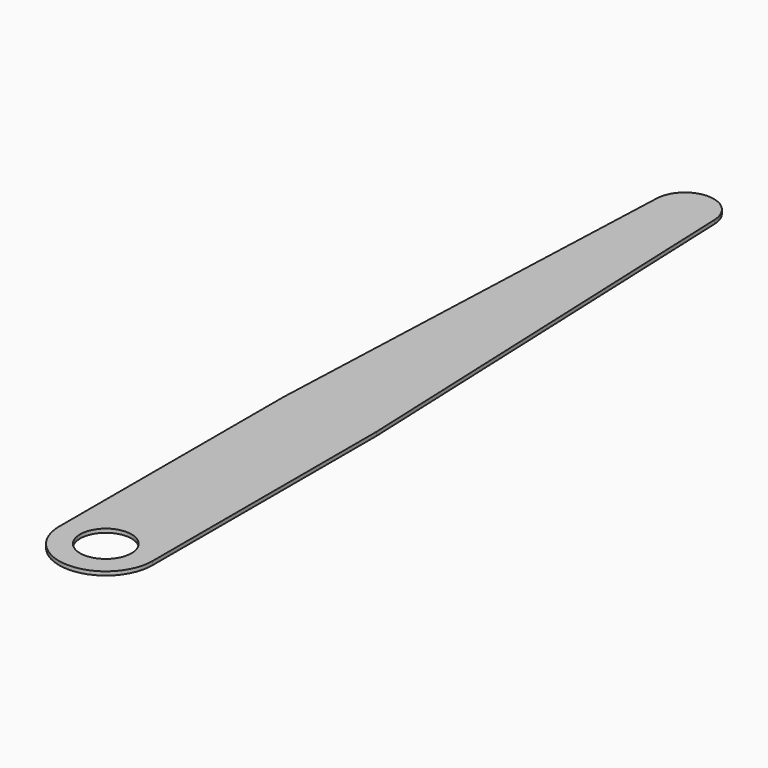
from build123d import *

# Parameters (mm, degrees)
F0_R     = 2.75
F1_DEPTH = 0.4


with BuildPart() as f1:
    # F0 (on Top) → F1 (new body)
    with BuildSketch(Plane.XY):
        with BuildLine():
            Line((-5, 30), (-5, 0))
            ThreePointArc((-5, 0), (0, -5), (5, 0))
            Line((5, 0), (5, 30))
            Line((5, 30), (3.095048, 77.623802))
            ThreePointArc((3.095048, 77.623802), (0, 80.597523), (-3.095048, 77.623802))
            Line((-3.095048, 77.623802), (-5, 30))
        make_face()
        Circle(F0_R, mode=Mode.SUBTRACT)
    extrude(amount=F1_DEPTH)


solid = f1.part
